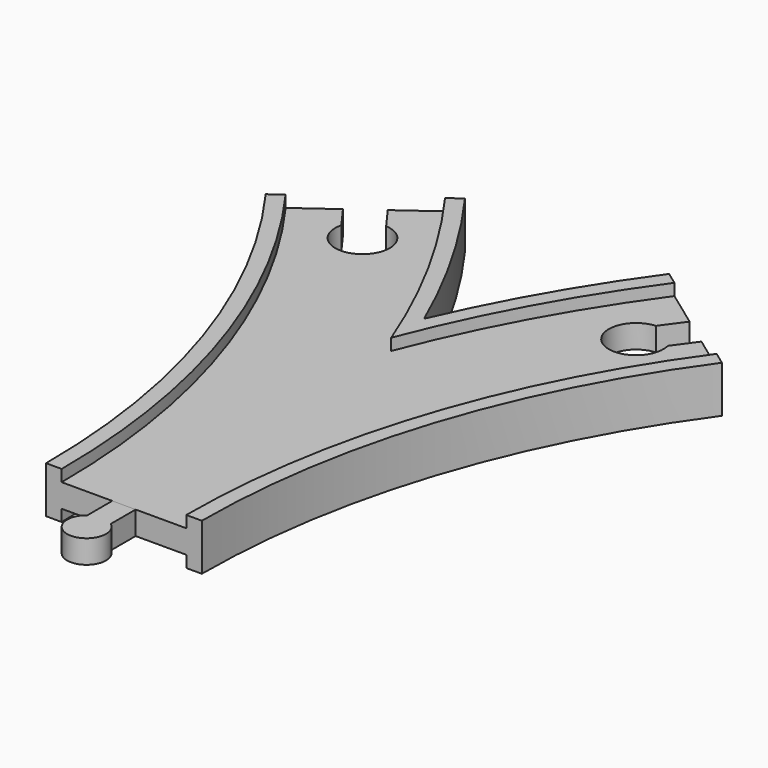
from build123d import *

# Parameters (mm, degrees)
SKETCH013_W          = 32
SKETCH013_H          = 3
POCKET_DEPTH         = 6.001
POCKET_DEPTH_BACK    = -6.001
POCKET001_DEPTH      = 6.001
POCKET001_DEPTH_BACK = -6.001
PAD_DEPTH            = 3


with BuildPart() as main:
    # AdditivePipe: sweep along a path in Sketch
    with BuildLine(Plane.XY) as additivepipe_path:
        ThreePointArc((0, 0), (-10.865453, 68.601773), (-42.398227, 130.488326))
    # Sketch002 → AdditivePipe (sweep)
    with BuildSketch(Plane.XZ):
        Polygon((-20, 6), (-20, -6), (-16, -6), (-16, -3), (-9, -3), (9, -3), (16, -3), (16, -6), (20, -6), (20, 6), (16, 6), (16, 3), (9, 3), (-9, 3), (-16, 3), (-16, 6), align=None)
    sweep(path=additivepipe_path.line)

    # AdditivePipe001: sweep along a path in Sketch001
    with BuildLine(Plane.XY) as additivepipe001_path:
        ThreePointArc((42.398227, 130.488326), (10.865453, 68.601773), (0, 0))
    # Sketch002 → AdditivePipe001 (sweep)
    with BuildSketch(Plane.XZ):
        Polygon((-20, 6), (-20, -6), (-16, -6), (-16, -3), (-9, -3), (9, -3), (16, -3), (16, -6), (20, -6), (20, 6), (16, 6), (16, 3), (9, 3), (-9, 3), (-16, 3), (-16, 6), align=None)
    sweep(path=additivepipe001_path.line)

    # SubtractivePipe: sweep along a path in Sketch
    with BuildLine(Plane.XY) as subtractivepipe_path:
        ThreePointArc((0, 0), (-10.865453, 68.601773), (-42.398227, 130.488326))
    # Sketch013 (on Face1 of AdditivePipe001) → SubtractivePipe (sweep, cut)
    with BuildSketch(Plane.XZ):
        with Locations((0, 4.5)):
            Rectangle(SKETCH013_W, SKETCH013_H)
    subtractivepipe = sweep(path=subtractivepipe_path.line, mode=Mode.SUBTRACT)

    # SubtractivePipe001: sweep along a path in Sketch001
    with BuildLine(Plane.XY) as subtractivepipe001_path:
        ThreePointArc((42.398227, 130.488326), (10.865453, 68.601773), (0, 0))
    # Sketch013 (on Face1 of AdditivePipe001) → SubtractivePipe001 (sweep, cut)
    with BuildSketch(Plane.XZ):
        with Locations((0, 4.5)):
            Rectangle(SKETCH013_W, SKETCH013_H)
    subtractivepipe001 = sweep(path=subtractivepipe001_path.line, mode=Mode.SUBTRACT)

    # Mirrored: SubtractivePipe across XY
    add(subtractivepipe.mirror(Plane.XY), mode=Mode.SUBTRACT)

    # Mirrored001: SubtractivePipe001 across XY
    add(subtractivepipe001.mirror(Plane.XY), mode=Mode.SUBTRACT)

    # Sketch009 → Pocket (cut, two sides)
    with BuildSketch(Plane.XY) as pocket_sk:
        with BuildLine():
            Line((38.757651, 133.13336), (46.038804, 127.843292))
            Line((46.038804, 127.843292), (41.924307, 122.180173))
            ThreePointArc((34.643154, 127.470241), (31.017586, 114.824218), (41.924307, 122.180173))
            Line((38.757651, 133.13336), (34.643154, 127.470241))
        make_face()
    extrude(amount=-POCKET_DEPTH, mode=Mode.SUBTRACT)
    extrude(pocket_sk.sketch, amount=-POCKET_DEPTH_BACK, mode=Mode.SUBTRACT)

    # Sketch008 → Pocket001 (cut, two sides)
    with BuildSketch(Plane.XY) as pocket001_sk:
        with BuildLine():
            Line((-46.038804, 127.843292), (-38.757651, 133.13336))
            Line((-38.757651, 133.13336), (-34.643154, 127.470241))
            ThreePointArc((-41.924307, 122.180173), (-31.017586, 114.824218), (-34.643154, 127.470241))
            Line((-46.038804, 127.843292), (-41.924307, 122.180173))
        make_face()
    extrude(amount=-POCKET001_DEPTH, mode=Mode.SUBTRACT)
    extrude(pocket001_sk.sketch, amount=-POCKET001_DEPTH_BACK, mode=Mode.SUBTRACT)


with BuildPart() as male1:
    # Sketch010 → Pad (new body, symmetric)
    with BuildSketch(Plane.XY):
        with BuildLine():
            Line((-3, 0), (3, 0))
            Line((3, 0), (3, -8))
            ThreePointArc((-3, -8), (0, -17), (3, -8))
            Line((-3, 0), (-3, -8))
        make_face()
    extrude(amount=PAD_DEPTH, both=True)


solid = Compound([main.part, male1.part])
